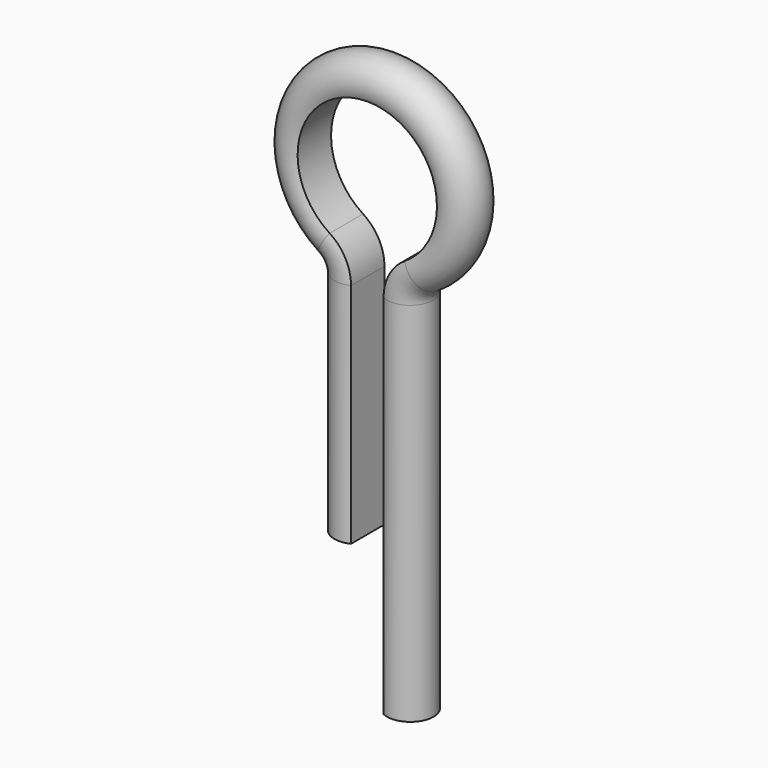
from build123d import *


with BuildPart() as f2:
    # F2: sweep along a path in F1
    with BuildLine(Plane.XZ) as f2_path:
        Line((0, 0), (0, 48.9583745875))
        ThreePointArc((0, 48.9583745875), (-1.2250356126, 53.7542061108), (-4.6, 57.3750247525))
        ThreePointArc((-4.6, 57.3750247525), (3.5, 85), (11.6, 57.3750247525))
        ThreePointArc((11.6, 57.3750247525), (8.2250356126, 53.7542061108), (7, 48.9583745875))
        Line((7, 48.9583745875), (7, -30))
    # F0 (on Top) → F2 (sweep)
    with BuildSketch(Plane.XY):
        with BuildLine():
            Line((0, -4.5), (0, 4.5))
            ThreePointArc((0, 4.5), (-7.1794494718, 0), (0, -4.5))
        make_face()
    sweep(path=f2_path.line)


solid = f2.part
